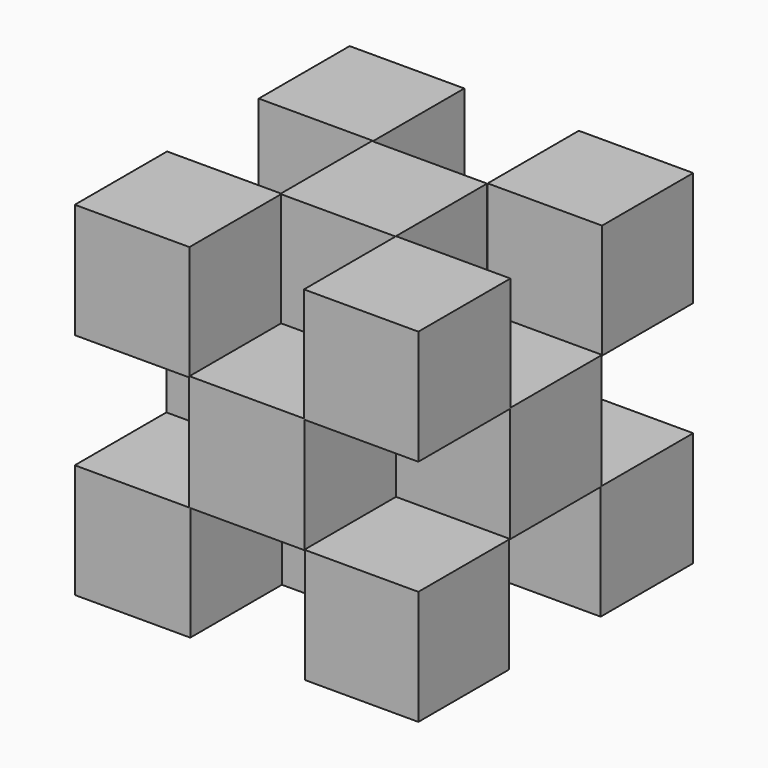
from build123d import *

# Parameters (mm, degrees)
F0_W      = 76.2
F0_H      = 76.2
F1_DEPTH  = 76.2
F3_W      = 25.4
F3_H      = 25.4
F4_W      = 25.4
F4_H      = 25.4
F5_W      = 25.4
F5_H      = 25.4
F6_W      = 25.4
F6_H      = 25.4
F7_DEPTH  = 25.4
F14_W     = 25.4
F14_H     = 25.4
F13_W     = 25.4
F13_H     = 25.4
F12_W     = 25.4
F12_H     = 25.4
F11_W     = 25.4
F11_H     = 25.4
F15_DEPTH = 25.4
F16_W     = 25.4
F16_H     = 25.4
F17_W     = 25.4
F17_H     = 25.4
F18_DEPTH = 25.4
F20_W     = 25.4
F20_H     = 25.4
F21_DEPTH = 25.4
F2_W      = 25.4
F2_H      = 25.4
F22_DEPTH = 24.384


with BuildPart() as f1:
    # F0 (on Front) → F1 (new body)
    with BuildSketch(Plane.XZ):
        Rectangle(F0_W, F0_H)
    extrude(amount=F1_DEPTH)

    # F3 (on Front) + F4 (on Front) + F5 (on Front) + F6 (on Front) → F7 (cut)
    with BuildSketch(Plane.XZ):
        with Locations((-25.449485, 0.03107)):
            Rectangle(F3_W, F3_H)
    with BuildSketch(Plane.XZ):
        with Locations((0.029016, 25.827004)):
            Rectangle(F4_W, F4_H)
    with BuildSketch(Plane.XZ):
        with Locations((25.474846, -0.000868)):
            Rectangle(F5_W, F5_H)
    with BuildSketch(Plane.XZ):
        with Locations((0.018974, -25.553884)):
            Rectangle(F6_W, F6_H)
    extrude(amount=F7_DEPTH, mode=Mode.SUBTRACT)

    # F14 (on offset) + F13 (on offset) + F12 (on offset) + F11 (on offset) → F15 (cut)
    with BuildSketch(Plane.XZ.offset(76.2)):
        with Locations((-25.426297, -0.069618)):
            Rectangle(F14_W, F14_H)
    with BuildSketch(Plane.XZ.offset(76.2)):
        with Locations((0.216928, -25.486759)):
            Rectangle(F13_W, F13_H)
    with BuildSketch(Plane.XZ.offset(76.2)):
        with Locations((25.516777, -0.001813)):
            Rectangle(F12_W, F12_H)
    with BuildSketch(Plane.XZ.offset(76.2)):
        with Locations((0.029588, 25.589703)):
            Rectangle(F11_W, F11_H)
    extrude(amount=-F15_DEPTH, mode=Mode.SUBTRACT)

    # F16 (on offset) + F17 (on offset) → F18 (cut)
    with BuildSketch(Plane.YZ.offset(38.1)):
        with Locations((-37.974666, 25.560617)):
            Rectangle(F16_W, F16_H)
    with BuildSketch(Plane.YZ.offset(38.1)):
        with Locations((-38.356981, -25.470397)):
            Rectangle(F17_W, F17_H)
    extrude(amount=-F18_DEPTH, mode=Mode.SUBTRACT)

    # F20 (on offset) → F21 (cut)
    with BuildSketch(Plane.XY.offset(38.1)):
        with Locations((-25.548159, -37.909492)):
            Rectangle(F20_W, F20_H)
    extrude(amount=-F21_DEPTH, mode=Mode.SUBTRACT)

    # F2 (on Front) → F22 (cut)
    with BuildSketch(Plane.XZ):
        Rectangle(F2_W, F2_H)
    extrude(amount=F22_DEPTH, mode=Mode.SUBTRACT)


solid = f1.part
